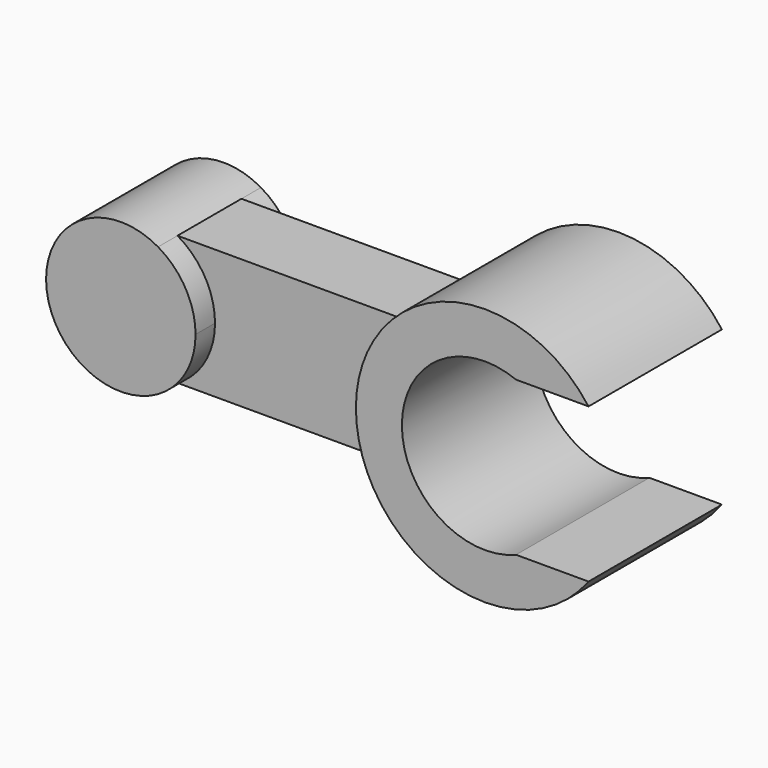
from build123d import *

# Parameters (mm, degrees)
F1_DEPTH = 1.23
F2_DEPTH = 0.765
F3_DEPTH = 1.595
F4_DEPTH = 1.595
F5_DEPTH = 0.765
F6_DEPTH = 1.23


with BuildPart() as f1:
    # F0 (on Front) → F1 (new body)
    with BuildSketch(Plane.XZ):
        with BuildLine():
            ThreePointArc((-6.54775, -1.24), (-6.022378, -0.716374), (-5.83, 0))
            ThreePointArc((-5.83, 0), (-6.022378, 0.716374), (-6.54775, 1.24))
            ThreePointArc((-6.54775, 1.24), (-8.69, 0), (-6.54775, -1.24))
        make_face()
    extrude(amount=F1_DEPTH)

    # F0 (on Front) → F2 (join)
    with BuildSketch(Plane.XZ):
        with BuildLine():
            Line((-5.83, 0), (-5.83, 1.24))
            Line((-5.83, 1.24), (-6.54775, 1.24))
            ThreePointArc((-6.54775, 1.24), (-6.022378, 0.716374), (-5.83, 0))
        make_face()
        with BuildLine():
            Line((-6.54775, -1.24), (-5.83, -1.24))
            Line((-5.83, -1.24), (-5.83, 0))
            ThreePointArc((-5.83, 0), (-6.022378, -0.716374), (-6.54775, -1.24))
        make_face()
        with BuildLine():
            ThreePointArc((-2.47, 0), (-2.385088, 0.642073), (-2.136188, 1.24))
            Line((-2.136188, 1.24), (-5.83, 1.24))
            Line((-5.83, 1.24), (-5.83, 0))
            Line((-5.83, 0), (-2.47, 0))
        make_face()
        with BuildLine():
            Line((-5.83, -1.24), (-2.136188, -1.24))
            ThreePointArc((-2.136188, -1.24), (-2.385088, -0.642073), (-2.47, 0))
            Line((-2.47, 0), (-5.83, 0))
            Line((-5.83, 0), (-5.83, -1.24))
        make_face()
    extrude(amount=F2_DEPTH)

    # F0 (on Front) → F3 (join)
    with BuildSketch(Plane.XZ):
        with BuildLine():
            Line((1.7075, 1.475), (1.981231, 1.475))
            ThreePointArc((1.981231, 1.475), (-0.140745, 2.465987), (-2.136188, 1.24))
            ThreePointArc((-2.136188, 1.24), (-2.385088, 0.642073), (-2.47, 0))
            ThreePointArc((-2.47, 0), (-2.385088, -0.642073), (-2.136188, -1.24))
            ThreePointArc((-2.136188, -1.24), (-0.140745, -2.465987), (1.981231, -1.475))
            Line((1.981231, -1.475), (1.7075, -1.475))
            Line((1.7075, -1.475), (0.593696, -1.475))
            ThreePointArc((0.593696, -1.475), (-1.59, 0), (0.593696, 1.475))
            Line((0.593696, 1.475), (1.7075, 1.475))
        make_face()
    extrude(amount=F3_DEPTH)

    # F0 (on Front) → F4 (join)
    with BuildSketch(Plane.XZ):
        with BuildLine():
            Line((1.7075, 1.475), (1.981231, 1.475))
            ThreePointArc((1.981231, 1.475), (-0.140745, 2.465987), (-2.136188, 1.24))
            ThreePointArc((-2.136188, 1.24), (-2.385088, 0.642073), (-2.47, 0))
            ThreePointArc((-2.47, 0), (-2.385088, -0.642073), (-2.136188, -1.24))
            ThreePointArc((-2.136188, -1.24), (-0.140745, -2.465987), (1.981231, -1.475))
            Line((1.981231, -1.475), (1.7075, -1.475))
            Line((1.7075, -1.475), (0.593696, -1.475))
            ThreePointArc((0.593696, -1.475), (-1.59, 0), (0.593696, 1.475))
            Line((0.593696, 1.475), (1.7075, 1.475))
        make_face()
    extrude(amount=-F4_DEPTH)

    # F0 (on Front) → F5 (join)
    with BuildSketch(Plane.XZ):
        with BuildLine():
            Line((-6.54775, -1.24), (-5.83, -1.24))
            Line((-5.83, -1.24), (-5.83, 0))
            ThreePointArc((-5.83, 0), (-6.022378, -0.716374), (-6.54775, -1.24))
        make_face()
        with BuildLine():
            Line((-5.83, 0), (-5.83, 1.24))
            Line((-5.83, 1.24), (-6.54775, 1.24))
            ThreePointArc((-6.54775, 1.24), (-6.022378, 0.716374), (-5.83, 0))
        make_face()
        with BuildLine():
            ThreePointArc((-2.47, 0), (-2.385088, 0.642073), (-2.136188, 1.24))
            Line((-2.136188, 1.24), (-5.83, 1.24))
            Line((-5.83, 1.24), (-5.83, 0))
            Line((-5.83, 0), (-2.47, 0))
        make_face()
        with BuildLine():
            Line((-5.83, -1.24), (-2.136188, -1.24))
            ThreePointArc((-2.136188, -1.24), (-2.385088, -0.642073), (-2.47, 0))
            Line((-2.47, 0), (-5.83, 0))
            Line((-5.83, 0), (-5.83, -1.24))
        make_face()
    extrude(amount=-F5_DEPTH)

    # F0 (on Front) → F6 (join)
    with BuildSketch(Plane.XZ):
        with BuildLine():
            ThreePointArc((-6.54775, -1.24), (-6.022378, -0.716374), (-5.83, 0))
            ThreePointArc((-5.83, 0), (-6.022378, 0.716374), (-6.54775, 1.24))
            ThreePointArc((-6.54775, 1.24), (-8.69, 0), (-6.54775, -1.24))
        make_face()
    extrude(amount=-F6_DEPTH)


solid = f1.part
